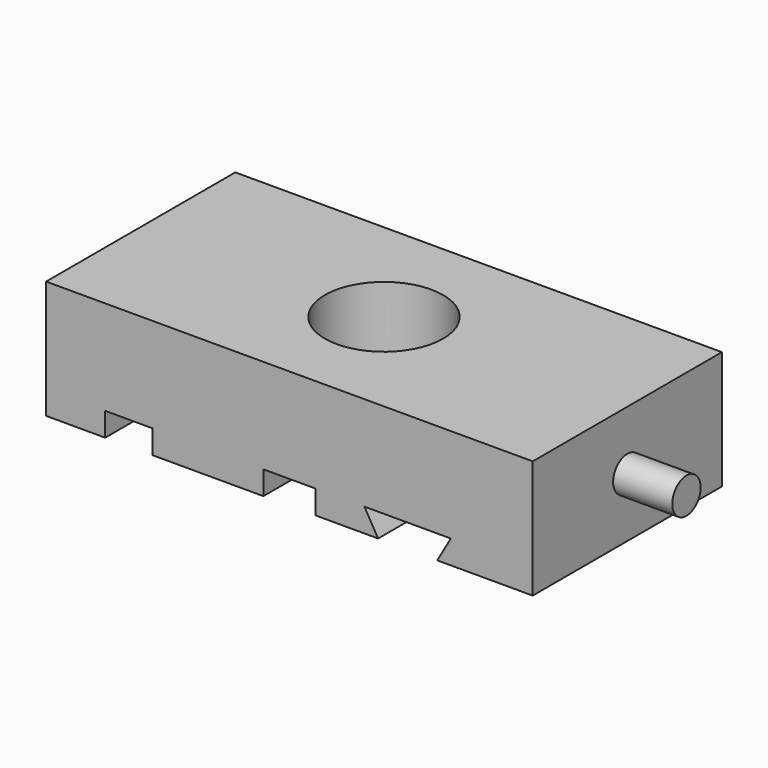
from build123d import *

# Parameters (mm, degrees)
F0_W     = 205.775664
F0_H     = 100
F0_R     = 25
F1_DEPTH = 50
F2_W     = 20
F2_H     = 100
F3_DEPTH = 10
F5_DEPTH = 100.001
F6_R     = 7.5
F7_DEPTH = 25


with BuildPart() as f1:
    # F0 (on Top) → F1 (new body)
    with BuildSketch(Plane.XY):
        Rectangle(F0_W, F0_H)
        Circle(F0_R, mode=Mode.SUBTRACT)
    extrude(amount=F1_DEPTH)

    # F2 (on face) → F3 (cut)
    with BuildSketch(Plane(origin=(0, 0, 0), x_dir=(1, 0, 0), z_dir=(0, 0, -1))):
        with Locations((-67.887832, 0)):
            Rectangle(F2_W, F2_H)
        with BuildLine():
            Line((11, 50), (-11, 50))
            Line((-11, 50), (-11, 22.449944))
            ThreePointArc((-11, 22.449944), (0, 25), (11, 22.449944))
            Line((11, 22.449944), (11, 50))
        make_face()
        with BuildLine():
            Line((-11, -22.449944), (-11, -50))
            Line((-11, -50), (11, -50))
            Line((11, -50), (11, -22.449944))
            ThreePointArc((11, -22.449944), (0, -25), (-11, -22.449944))
        make_face()
    extrude(amount=-F3_DEPTH, mode=Mode.SUBTRACT)

    # F4 (on face) → F5 (cut, through all)
    with BuildSketch(Plane(origin=(0, 50, 0), x_dir=(-1, 0, 0), z_dir=(0, 1, 0))):
        Polygon((-62.5, 0), (-37.5, 0), (-31.726497, 10), (-68.273503, 10), align=None)
    extrude(amount=-F5_DEPTH, mode=Mode.SUBTRACT)

    # F6 (on face) → F7 (join)
    with BuildSketch(Plane.YZ.offset(102.887832)):
        with Locations((0, 25)):
            Circle(F6_R)
    extrude(amount=F7_DEPTH)


solid = f1.part
